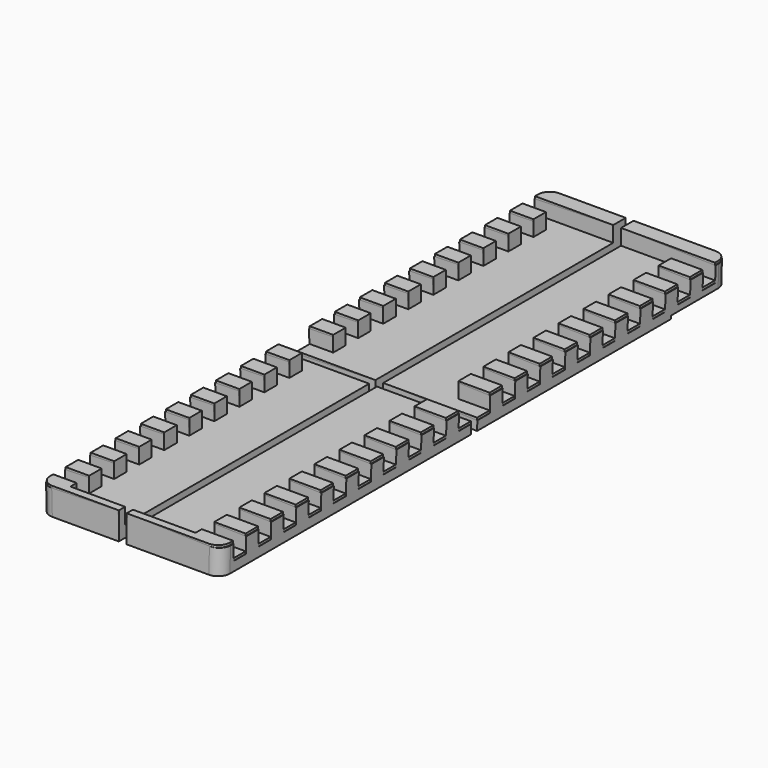
from build123d import *

# Parameters (mm, degrees)
SKETCH004_W           = 23
SKETCH004_H           = 9
PAD004_DEPTH          = 0.7
SKETCH002_W           = 1
SKETCH002_H           = 81
PAD002_DEPTH          = 4
SKETCH003_W           = 23
SKETCH003_H           = 1
PAD003_DEPTH          = 4
SKETCH007_W           = 10
SKETCH007_H           = 0.3
PAD007_DEPTH          = 81
PAD005_DEPTH          = 81
PAD006_DEPTH          = 81
PAD010_DEPTH          = 23
SKETCH001_W           = 16
SKETCH001_H           = 77
PAD001_DEPTH          = 2.5
PAD_DEPTH             = 3.5
SKETCH008_W           = 10
SKETCH008_H           = 4
PAD008_DEPTH          = 81
COMMON001_PITCH_ANGLE = -1.4321
SKETCH009_W           = 12
SKETCH009_H           = 4
PAD009_DEPTH          = 81
COMMON002_PITCH_ANGLE = 1.4321


with BuildPart() as body004:
    # Sketch004 → Pad004 (new body)
    with BuildSketch(Plane.XY):
        with Locations((11.5, 76.5)):
            Rectangle(SKETCH004_W, SKETCH004_H)
    extrude(amount=PAD004_DEPTH)


with BuildPart() as body002:
    # Sketch002 → Pad002 (new body)
    with BuildSketch(Plane.XY):
        with Locations((10.5, 40.5)):
            Rectangle(SKETCH002_W, SKETCH002_H)
    extrude(amount=PAD002_DEPTH)


with BuildPart() as body003:
    # Sketch003 → Pad003 (new body)
    with BuildSketch(Plane.XY):
        with Locations((11.5, 40.5)):
            Rectangle(SKETCH003_W, SKETCH003_H)
    extrude(amount=PAD003_DEPTH)


with BuildPart() as body007:
    # Sketch007 → Pad007 (new body)
    with BuildSketch(Plane.XZ):
        with Locations((5, 0.15)):
            Rectangle(SKETCH007_W, SKETCH007_H)
    extrude(amount=-PAD007_DEPTH)


with BuildPart() as common:
    # Sketch005 → Pad005 (new body)
    with BuildSketch(Plane.XZ):
        Polygon((0, 0), (0, 0.3), (12, 0), align=None)
    extrude(amount=-PAD005_DEPTH)

    # Common: intersect Body007
    add(body007.part, mode=Mode.INTERSECT)


with BuildPart() as body006:
    # Sketch006 → Pad006 (new body)
    with BuildSketch(Plane.XZ):
        Polygon((11, 0), (23, 0.3), (23, 0), align=None)
    extrude(amount=-PAD006_DEPTH)


with BuildPart() as body010:
    # Sketch010 → Pad010 (new body)
    with BuildSketch(Plane.YZ):
        Polygon((2, 6.5), (2, 1.5), (4, 1.5), (4, 5.5), (6, 5.5), (6, 1.5), (8, 1.5), (8, 5.5), (10, 5.5), (10, 1.5), (12, 1.5), (12, 5.5), (14, 5.5), (14, 1.5), (16, 1.5), (16, 5.5), (18, 5.5), (18, 1.5), (20, 1.5), (20, 5.5), (22, 5.5), (22, 1.5), (24, 1.5), (24, 5.5), (26, 5.5), (26, 1.5), (28, 1.5), (28, 5.5), (30, 5.5), (30, 1.5), (32, 1.5), (32, 5.5), (34, 5.5), (34, 1.5), (36, 1.5), (36, 5.5), (38, 5.5), (38, 1.5), (40, 1.5), (40, 5.5), (41, 5.5), (41, 1.5), (43, 1.5), (43, 5.5), (45, 5.5), (45, 1.5), (47, 1.5), (47, 5.5), (49, 5.5), (49, 1.5), (51, 1.5), (51, 5.5), (53, 5.5), (53, 1.5), (55, 1.5), (55, 5.5), (57, 5.5), (57, 1.5), (59, 1.5), (59, 5.5), (61, 5.5), (61, 1.5), (63, 1.5), (63, 5.5), (65, 5.5), (65, 1.5), (67, 1.5), (67, 5.5), (69, 5.5), (69, 1.5), (71, 1.5), (71, 5.5), (73, 5.5), (73, 1.5), (75, 1.5), (75, 5.5), (77, 5.5), (77, 1.5), (79, 1.5), (79, 6.5), align=None)
    extrude(amount=PAD010_DEPTH)


with BuildPart() as fusion:
    # Sketch001 → Pad001 (new body)
    with BuildSketch(Plane.XY):
        with Locations((11, 39.5)):
            Rectangle(SKETCH001_W, SKETCH001_H)
    extrude(amount=PAD001_DEPTH)


with BuildPart() as fusion_1:
    # Body001 placement: moved
    add(fusion.part.moved(Location((0, 0, 1.5))))

    # Fusion: union Body004, Body002, Body003, Common, Body006, Body010
    add(body004.part)
    add(body002.part)
    add(body003.part)
    add(common.part)
    add(body006.part)
    add(body010.part)


with BuildPart() as cut:
    # Sketch → Pad (new body)
    with BuildSketch(Plane.XY):
        with BuildLine():
            Line((1.5, 0), (21.5, 0))
            ThreePointArc((21.5, 0), (22.56066, 0.43934), (23, 1.5))
            Line((23, 1.5), (23, 79.5))
            ThreePointArc((23, 79.5), (22.56066, 80.56066), (21.5, 81))
            Line((21.5, 81), (1.5, 81))
            ThreePointArc((1.5, 81), (0.43934, 80.56066), (0, 79.5))
            Line((0, 79.5), (0, 1.5))
            ThreePointArc((0, 1.5), (0.43934, 0.43934), (1.5, 0))
        make_face()
    extrude(amount=PAD_DEPTH)

    # Cut: cut Fusion
    add(fusion_1.part, mode=Mode.SUBTRACT)


with BuildPart() as body008:
    # Sketch008 → Pad008 (new body)
    with BuildSketch(Plane.XZ):
        with Locations((5, 2)):
            Rectangle(SKETCH008_W, SKETCH008_H)
    extrude(amount=-PAD008_DEPTH)


with BuildPart() as common001:
    # Clone base: copy of Cut
    add(cut.part)

    # Common001: intersect Body008
    add(body008.part, mode=Mode.INTERSECT)


with BuildPart() as common001_1:
    # Common001 pitch: moved
    add(common001.part.rotate(Axis((0, 0, 0), (0, 1, 0)), COMMON001_PITCH_ANGLE))


with BuildPart() as common001_2:
    # Common001 placement: moved
    add(common001_1.part.moved(Location((0, 0, -0.3))))


with BuildPart() as body009:
    # Sketch009 → Pad009 (new body)
    with BuildSketch(Plane.XZ):
        with Locations((17, 2)):
            Rectangle(SKETCH009_W, SKETCH009_H)
    extrude(amount=-PAD009_DEPTH)


with BuildPart() as fusion001:
    # Clone001 base: copy of Cut
    add(cut.part)

    # Common002: intersect Body009
    add(body009.part, mode=Mode.INTERSECT)


with BuildPart() as fusion001_1:
    # Common002 pitch: moved
    add(fusion001.part.rotate(Axis((0, 0, 0), (0, 1, 0)), COMMON002_PITCH_ANGLE))


with BuildPart() as fusion001_2:
    # Common002 placement: moved
    add(fusion001_1.part.moved(Location((0, 0, 0.275))))

    # Fusion001: union Common001
    add(common001_2.part)


solid = Compound([cut.part, fusion001_2.part])
